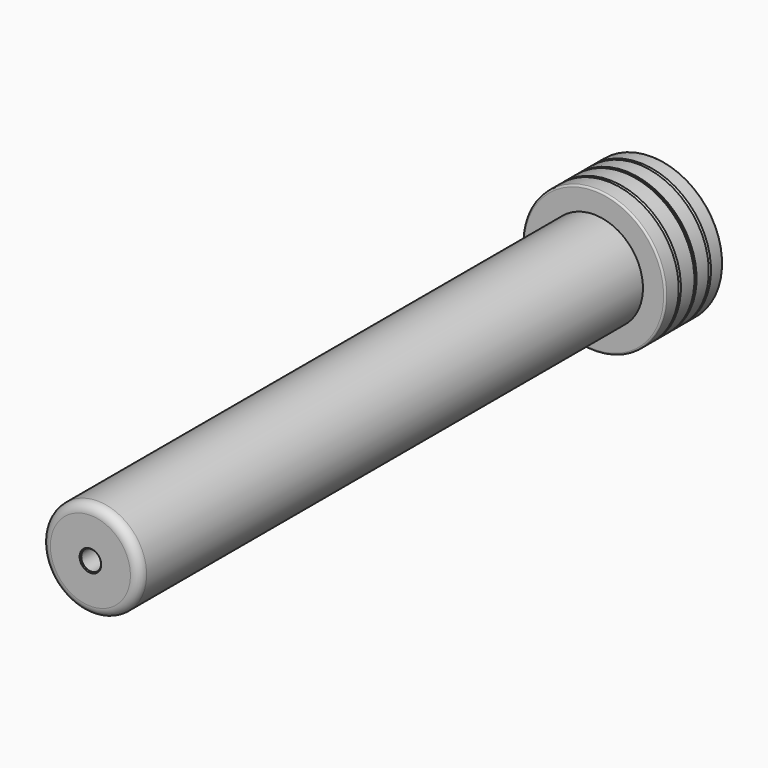
from build123d import *

# Parameters (mm, degrees)
F2_SIZE = 0.5


with BuildPart() as f1:
    # F0 (on Top) → F1 (revolve)
    with BuildSketch(Plane.XY):
        with BuildLine():
            Line((0, -166.205691), (0, 148.794309))
            Line((0, 148.794309), (-38.75, 148.794309))
            ThreePointArc((-38.75, 148.794309), (-39.457107, 148.501416), (-39.75, 147.794309))
            Line((-39.75, 147.794309), (-39.75, 140.453628))
            ThreePointArc((-39.75, 140.453628), (-39, 139.703628), (-39.75, 138.953628))
            Line((-39.75, 138.953628), (-39.75, 130.453628))
            Line((-39.75, 130.453628), (-39, 130.453628))
            Line((-39, 130.453628), (-39, 128.953628))
            Line((-39, 128.953628), (-39.75, 128.953628))
            Line((-39.75, 128.953628), (-39.75, 119.544309))
            ThreePointArc((-39.75, 119.544309), (-39, 118.794309), (-39.75, 118.044309))
            Line((-39.75, 118.044309), (-39.75, 109.794309))
            ThreePointArc((-39.75, 109.794309), (-39.457107, 109.087202), (-38.75, 108.794309))
            Line((-38.75, 108.794309), (-30.25, 108.794309))
            Line((-30.25, 108.794309), (-27.25, 108.794309))
            Line((-27.25, 108.794309), (-27.25, 105.794309))
            Line((-27.25, 105.794309), (-27.25, -236.205691))
            ThreePointArc((-27.25, -236.205691), (-25.785534, -239.741225), (-22.25, -241.205691))
            Line((-22.25, -241.205691), (-5.5, -241.205691))
            Line((-5.5, -241.205691), (-5.5, -166.205691))
            Line((-5.5, -166.205691), (0, -166.205691))
        make_face()
    revolve(axis=Axis((0, -8.705691, 0), (0, -1, 0)))

    # F2
    f2_edges = [f1.edges().sort_by_distance(p)[0] for p in [
        (22.25, -241.205691, 0),
        (5.5, -241.205691, 0),
    ]]
    chamfer(f2_edges, length=F2_SIZE)


solid = f1.part
